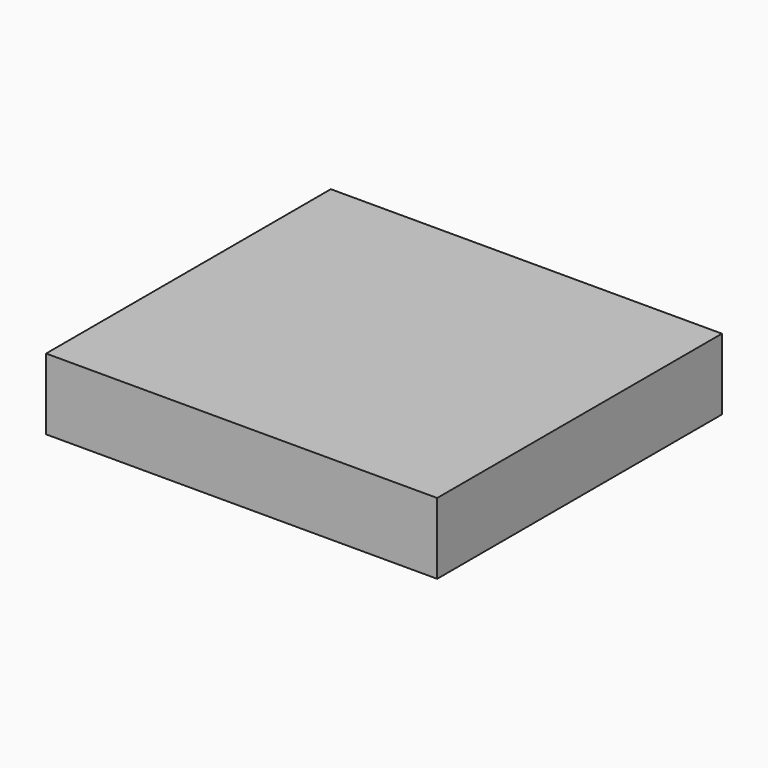
from build123d import *

# Parameters (mm, degrees)
F0_W     = 71.3957846165
F0_H     = 29.7847483307
F0_W_2   = 68.1837126613
F0_H_2   = 35.0408777595
F0_H_3   = 33.7268412113
F0_H_4   = 28.4707117826
F1_DEPTH = 25.4


with BuildPart() as f1:
    # F0 (on Top) → F1 (new body)
    with BuildSketch(Plane.XY):
        with Locations((-35.6978923082, 43.3630859479)):
            Rectangle(F0_W, F0_H)
        with Locations((34.0918563306, 43.3630859479)):
            Rectangle(F0_W_2, F0_H)
        with Locations((-35.6978923082, -51.247280091)):
            Rectangle(F0_W, F0_H_2)
        with Locations((34.0918563306, -51.247280091)):
            Rectangle(F0_W_2, F0_H_2)
        with Locations((-35.6978923082, -16.8634206057)):
            Rectangle(F0_W, F0_H_3)
        with Locations((34.0918563306, 14.2353558913)):
            Rectangle(F0_W_2, F0_H_4)
        with Locations((34.0918563306, -16.8634206057)):
            Rectangle(F0_W_2, F0_H_3)
        with Locations((-35.6978923082, 14.2353558913)):
            Rectangle(F0_W, F0_H_4)
    extrude(amount=F1_DEPTH)


solid = f1.part
